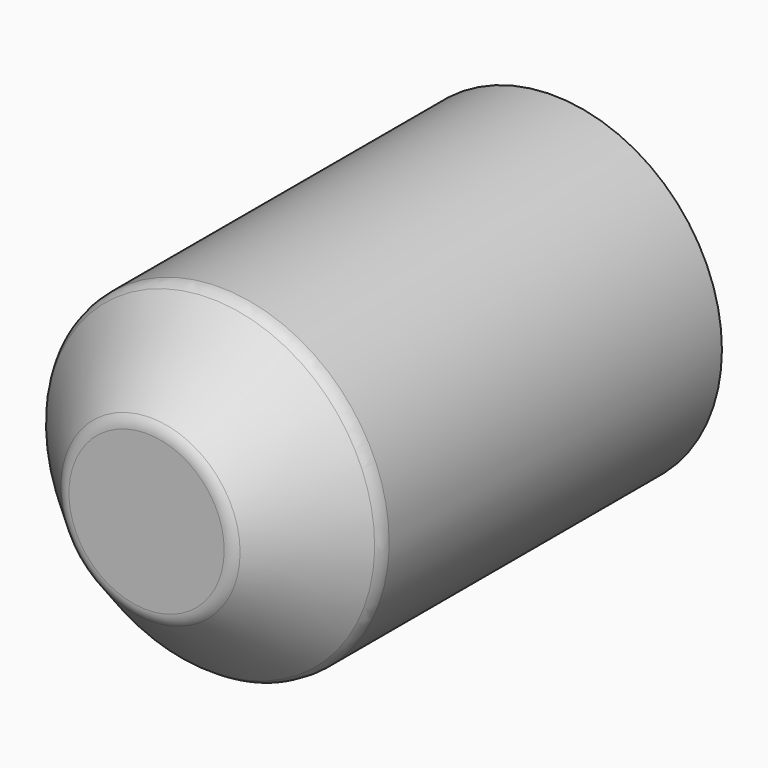
from build123d import *

# Parameters (mm, degrees)
F0_R     = 50
F1_DEPTH = 150
F2_SIZE  = 25
F3_R     = 5


with BuildPart() as f1:
    # F0 (on Front) → F1 (new body)
    with BuildSketch(Plane.XZ):
        Circle(F0_R)
    extrude(amount=F1_DEPTH)

    # F2
    f2_edges = [f1.edges().sort_by_distance(p)[0] for p in [
        (-50, -150, 0),
    ]]
    chamfer(f2_edges, length=F2_SIZE)

    # F3
    f3_edges = [f1.edges().sort_by_distance(p)[0] for p in [
        (37.5, -137.5, 0),
        (-50, -125, 0),
        (-25, -150, 0),
    ]]
    fillet(f3_edges, radius=F3_R)


solid = f1.part
